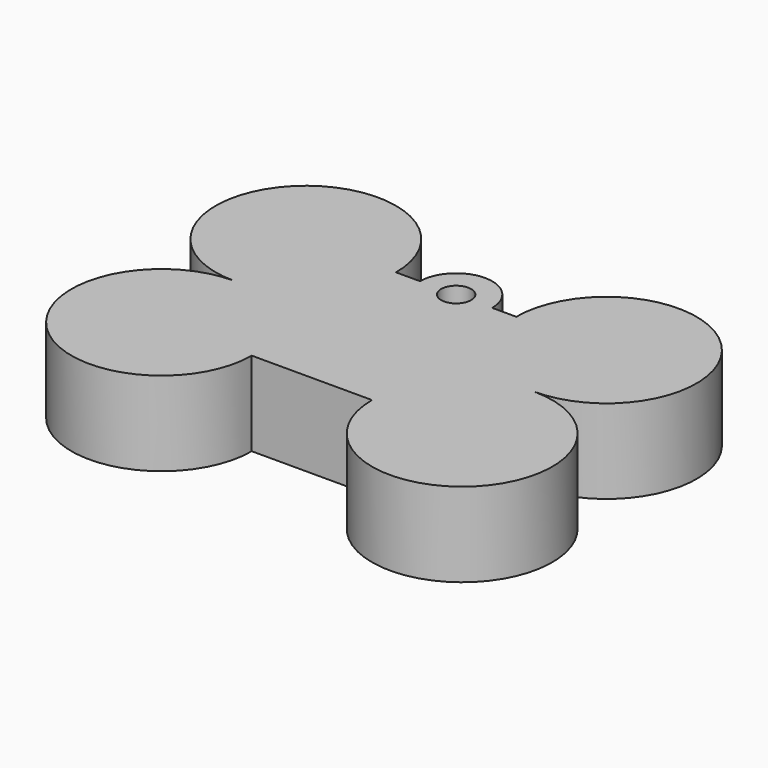
from build123d import *

# Parameters (mm, degrees)
F1_DEPTH = 4
F2_DEPTH = 10


with BuildPart() as f1:
    # F0 (on Top) → F1 (new body)
    with BuildSketch(Plane.XY):
        with BuildLine():
            Line((-6, 15), (-10, 15))
            ThreePointArc((-10, 15), (-35.6066017178, 25.6066017178), (-25, 0))
            ThreePointArc((-25, 0), (-35.6066017178, -25.6066017178), (-10, -15))
            Line((-10, -15), (10, -15))
            ThreePointArc((10, -15), (35.6066017178, -25.6066017178), (25, 0))
            ThreePointArc((25, 0), (35.6066017178, 25.6066017178), (10, 15))
            Line((10, 15), (6, 15))
            ThreePointArc((6, 15), (0, 21), (-6, 15))
        make_face()
        with BuildLine():
            ThreePointArc((-2.5, 15), (0, 17.5), (2.5, 15))
            ThreePointArc((2.5, 15), (0, 12.5), (-2.5, 15))
        make_face(mode=Mode.SUBTRACT)
    extrude(amount=F1_DEPTH)

    # F2 (add): a face of the model
    f2_faces = [f1.faces().sort_by_distance(p)[0] for p in [
        (0, 0.1907608613, 4),
    ]]
    extrude(f2_faces, amount=F2_DEPTH)


solid = f1.part
